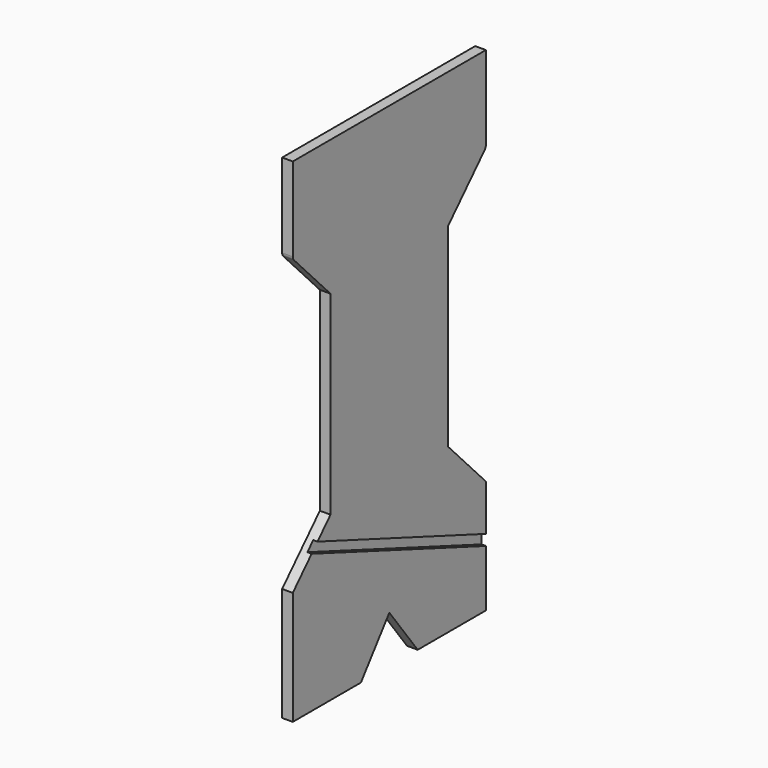
from build123d import *

# Parameters (mm, degrees)
F1_DEPTH = 19.05
F3_DEPTH = 7.62


with BuildPart() as f1:
    # F0 (on Right) → F1 (new body)
    with BuildSketch(Plane.YZ):
        with BuildLine():
            Line((215.9, -72.799858), (215.9, 76.835))
            Line((215.9, 76.835), (-215.9, 76.835))
            Line((-215.9, 76.835), (-215.9, -73.258757))
            ThreePointArc((-215.9, -73.258757), (-215.261906, -76.580452), (-213.43846, -79.429289))
            Line((-213.43846, -79.429289), (-131.548995, -165.735))
            Line((-131.548995, -165.735), (-131.548995, -513.715))
            Line((-131.548995, -513.715), (-215.9, -602.615))
            Line((-215.9, -602.615), (-215.9, -805.815))
            Line((-215.9, -805.815), (-63.5, -805.815))
            Line((-63.5, -805.815), (0, -721.487939))
            Line((0, -721.487939), (63.5, -805.815))
            Line((63.5, -805.815), (215.9, -805.815))
            Line((215.9, -805.815), (215.9, -602.615))
            Line((215.9, -602.615), (131.548995, -513.715))
            Line((131.548995, -513.715), (131.548995, -165.735))
            Line((131.548995, -165.735), (213.122599, -79.762185))
            ThreePointArc((213.122599, -79.762185), (215.180027, -76.547789), (215.9, -72.799858))
        make_face()
    extrude(amount=F1_DEPTH)

    # F2 (on face) → F3 (cut)
    with BuildSketch(Plane.YZ.offset(19.05)):
        Polygon((-173.724498, -558.165), (215.9, -704.215), (215.9, -685.165), (-160.61232, -544.345691), align=None)
    extrude(amount=-F3_DEPTH, mode=Mode.SUBTRACT)


solid = f1.part
